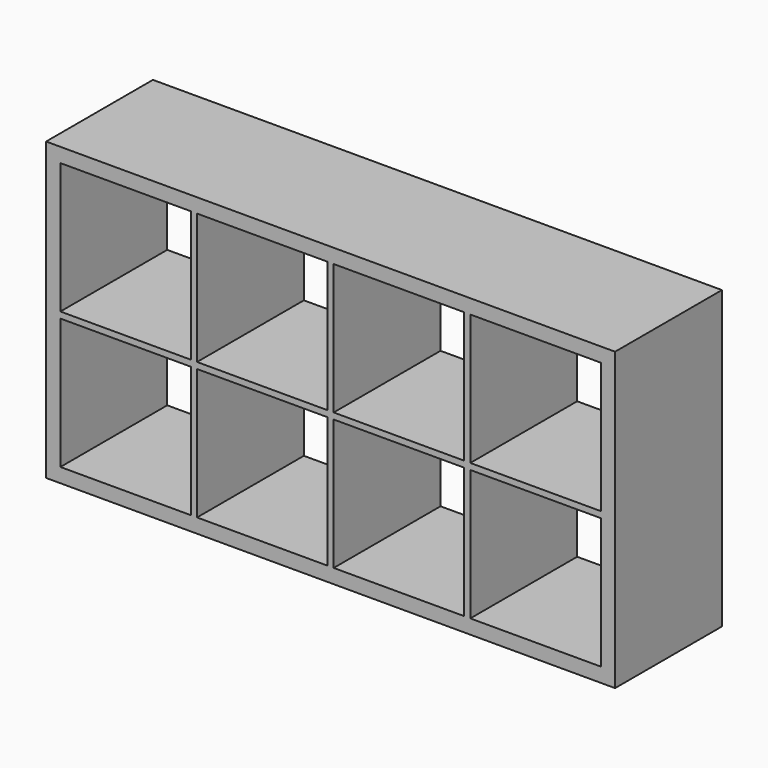
from build123d import *

# Parameters (mm, degrees)
F0_W     = 37
F0_H     = 382.5875
F1_DEPTH = 345
F2_W     = 345
F2_H     = 37
F3_DEPTH = 698
F7_W     = 345
F7_H     = 8
F8_DEPTH = 698
F4_W     = 16
F4_H     = 345
F4_W_2   = 8
F5_DEPTH = 337.5875


with BuildPart() as f1:
    # F0 (on Front) → F1 (new body)
    with BuildSketch(Plane.XZ):
        with Locations((-20.093406, 89.323638)):
            Rectangle(F0_W, F0_H)
    extrude(amount=F1_DEPTH)

    # F2 (on face) → F3 (join)
    with BuildSketch(Plane.YZ.offset(-1.593406)):
        with Locations((-172.5, -83.470112)):
            Rectangle(F2_W, F2_H)
    extrude(amount=F3_DEPTH)

    # F7 (on face) → F8 (join)
    with BuildSketch(Plane.YZ.offset(-1.593406)):
        with Locations((-172.5, 276.617388)):
            Rectangle(F7_W, F7_H)
    extrude(amount=F8_DEPTH)

    # F4 (on face) → F5 (join, through all)
    with BuildSketch(Plane.XY.offset(-64.970112)):
        with Locations((343.406594, -172.5)):
            Rectangle(F4_W, F4_H)
        with Locations((692.406594, -172.5)):
            Rectangle(F4_W_2, F4_H)
    extrude(amount=F5_DEPTH)

    # F9: F1 across face


with BuildPart() as f1_1:
    add(f1.part)
    add(f1.part.mirror(Plane(origin=(328.906594, -172.5, 280.617388), x_dir=(1, 0, 0), z_dir=(0, 0, 1))))

    # F6: F1 across face


with BuildPart() as f1_2:
    add(f1_1.part)
    add(f1_1.part.mirror(Plane(origin=(696.406594, -172.5, 280.617388), x_dir=(0, 1, 0), z_dir=(1, 0, 0))))


solid = f1_2.part
